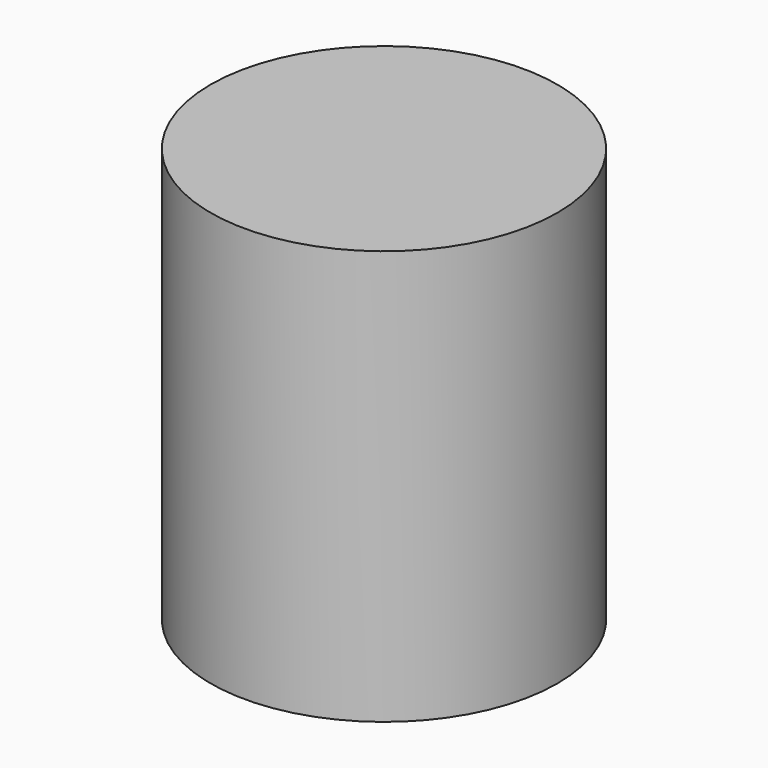
from build123d import *

# Parameters (mm, degrees)
SKETCH_R  = 6.7
PAD_DEPTH = 16


with BuildPart() as part:
    # Sketch → Pad (new body)
    with BuildSketch(Plane.XY):
        Circle(SKETCH_R)
    extrude(amount=PAD_DEPTH)


solid = part.part
